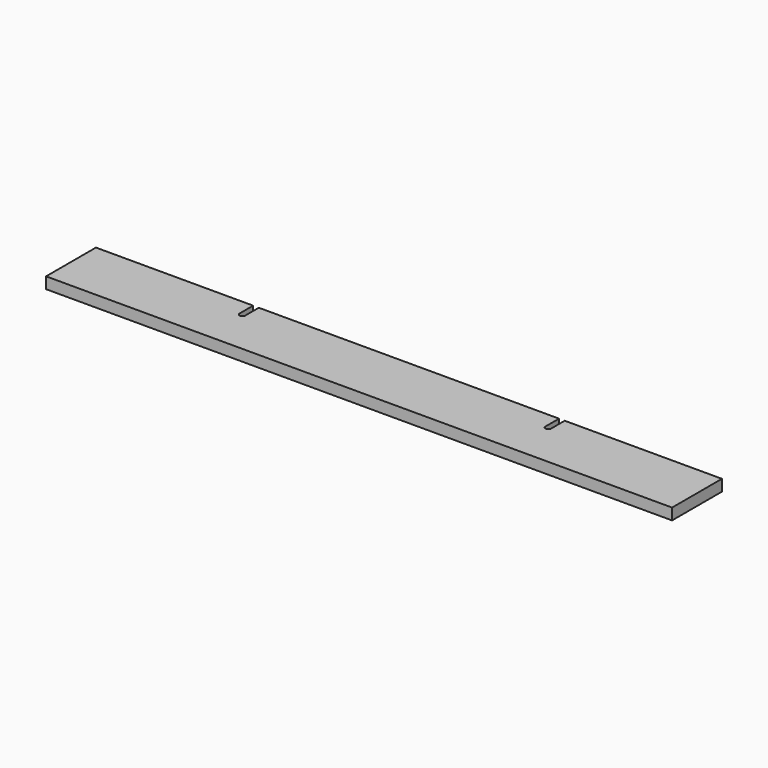
from build123d import *

# Parameters (mm, degrees)
F0_W     = 1403.35
F0_H     = 139.7
F1_DEPTH = 25.4
F3_DEPTH = 25.401


with BuildPart() as f1:
    # F0 (on Top) → F1 (new body)
    with BuildSketch(Plane.XY):
        with Locations((262.65402, 21.566037)):
            Rectangle(F0_W, F0_H)
    extrude(amount=F1_DEPTH)

    # F2 (on face) → F3 (cut, through all)
    with BuildSketch(Plane.XY.offset(25.4)):
        with BuildLine():
            Line((599.20402, 106.170528), (599.20402, 53.316037))
            ThreePointArc((599.20402, 53.316037), (605.55402, 46.966037), (611.90402, 53.316037))
            Line((611.90402, 53.316037), (611.90402, 112.724465))
            Line((611.90402, 112.724465), (599.20402, 106.170528))
        make_face()
        with BuildLine():
            Line((-86.59598, 114.504859), (-86.59598, 53.316037))
            ThreePointArc((-86.59598, 53.316037), (-80.24598, 46.966037), (-73.89598, 53.316037))
            Line((-73.89598, 53.316037), (-73.89598, 119.781473))
            Line((-73.89598, 119.781473), (-86.59598, 114.504859))
        make_face()
    extrude(amount=-F3_DEPTH, mode=Mode.SUBTRACT)


solid = f1.part
